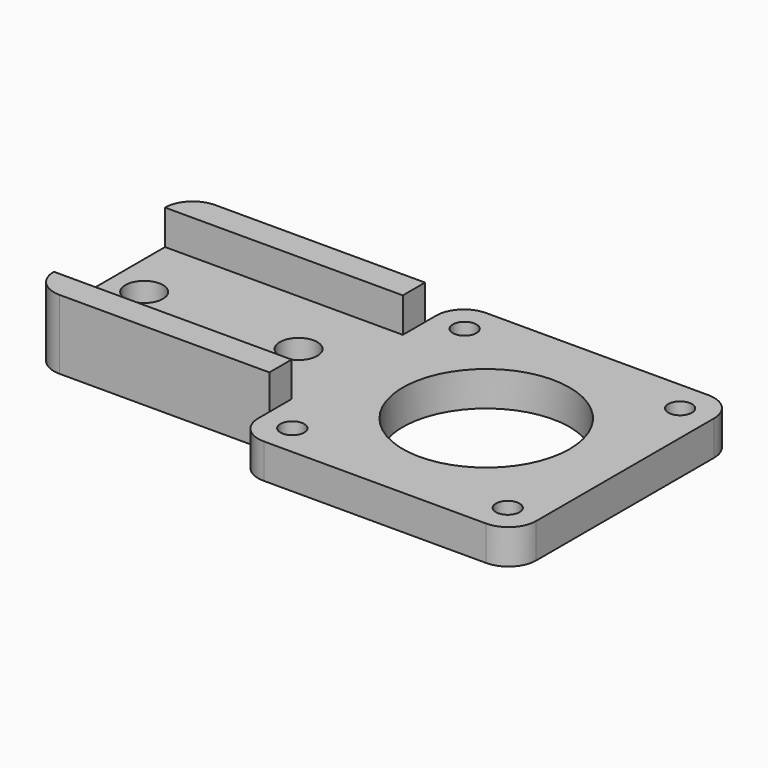
from build123d import *

# Parameters (mm, degrees)
F0_W     = 34.213527
F0_H     = 20
F0_R     = 2.7
F0_R_2   = 1.7
F0_R_3   = 12
F1_DEPTH = 5
F0_H_2   = 4
F2_DEPTH = 10
F3_R     = 4


with BuildPart() as f1:
    # F0 (on Top) → F1 (new body)
    with BuildSketch(Plane.XY):
        with Locations((-63.703899, -20)):
            Rectangle(F0_W, F0_H)
        with Locations((-75.810663, -20)):
            Circle(F0_R, mode=Mode.SUBTRACT)
        with Locations((-53.597136, -20)):
            Circle(F0_R, mode=Mode.SUBTRACT)
        Polygon((-46.597136, -40), (-6.597136, -40), (-6.597136, 0), (-46.597136, 0), (-46.597136, -6), (-46.597136, -10), (-46.597136, -30), (-46.597136, -34), align=None)
        with Locations((-42.097136, -35.5)):
            Circle(F0_R_2, mode=Mode.SUBTRACT)
        with Locations((-11.097136, -35.5)):
            Circle(F0_R_2, mode=Mode.SUBTRACT)
        with Locations((-26.597136, -20)):
            Circle(F0_R_3, mode=Mode.SUBTRACT)
        with Locations((-42.097136, -4.5)):
            Circle(F0_R_2, mode=Mode.SUBTRACT)
        with Locations((-11.097136, -4.5)):
            Circle(F0_R_2, mode=Mode.SUBTRACT)
    extrude(amount=F1_DEPTH)

    # F0 (on Top) → F2 (join)
    with BuildSketch(Plane.XY):
        with Locations((-63.703899, -8)):
            Rectangle(F0_W, F0_H_2)
        with Locations((-63.703899, -32)):
            Rectangle(F0_W, F0_H_2)
    extrude(amount=F2_DEPTH)

    # F3
    f3_edges = [f1.edges().sort_by_distance(p)[0] for p in [
        (-80.810663, -6, 5),
        (-46.597136, 0, 2.5),
        (-6.597136, 0, 2.5),
        (-6.597136, -40, 2.5),
        (-46.597136, -40, 2.5),
        (-80.810663, -34, 5),
    ]]
    fillet(f3_edges, radius=F3_R)


solid = f1.part
